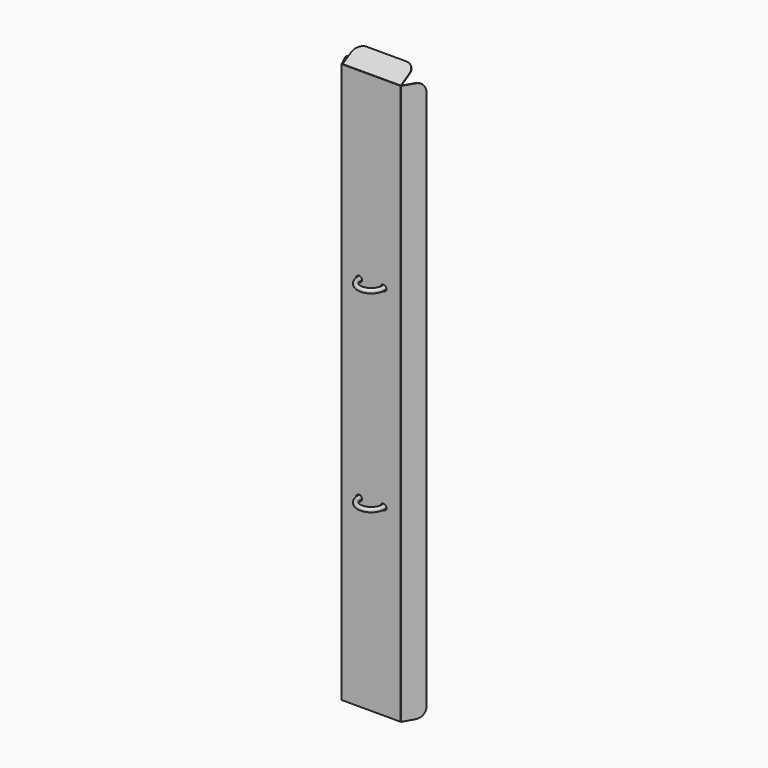
from build123d import *

# Parameters (mm, degrees)
F0_W          = 19
F0_H          = 183
F1_DEPTH      = 0.2
F3_DEPTH      = 0.2
F6_D          = 2
F7_R          = 0.6897302387
F8_ANGLE_BACK = 212.4467147355
F8_ANGLE      = 242.4467147355
F10_ANGLE     = 30
F12_DEPTH     = 0.2
F13_ANGLE     = 30
F14_ANGLE     = -25


with BuildPart() as f1:
    # F0 (on Front) → F1 (new body)
    with BuildSketch(Plane.XZ):
        Rectangle(F0_W, F0_H)
    extrude(amount=F1_DEPTH)

    # F6 (through all)
    with Locations(Plane.XZ.offset(0.2)):
        with Locations((-4, 31.5), (4, 31.5), (4, -31.5), (-4, -31.5)):
            Hole(F6_D / 2)


with BuildPart() as f3:
    # F2 (on face) → F3 (new body)
    with BuildSketch(Plane.YZ.offset(9.5)):
        with BuildLine():
            Line((3.8, 91.5), (-0.2, 91.5))
            Line((-0.2, 91.5), (-0.2, -91.5))
            Line((-0.2, -91.5), (3.8, -91.5))
            ThreePointArc((3.8, -91.5), (5.9213203436, -90.6213203436), (6.8, -88.5))
            Line((6.8, -88.5), (6.8, 88.5))
            ThreePointArc((6.8, 88.5), (5.9213203436, 90.6213203436), (3.8, 91.5))
        make_face()
    extrude(amount=F3_DEPTH)


with BuildPart() as f4_1:
    # F4: copy of F3
    add(f3.part.moved(Location((-19.2, 0, 0))))


with BuildPart() as f8:
    # F7 (on face) → F8 (revolve)
    with BuildSketch(Plane.XZ.offset(0.2), mode=Mode.PRIVATE) as f8_sk:
        with Locations((-4, 31.5)):
            Circle(F7_R)
    revolve(f8_sk.sketch.rotate(Axis((0, -0.2, 37.479095161), (0, 0, -1)), -F8_ANGLE_BACK), axis=Axis((0, -0.2, 37.479095161), (0, 0, -1)), revolution_arc=F8_ANGLE)


with BuildPart() as f9_1:
    # F9: instance of F8
    add(f8.part.mirror(Plane.XY))


with BuildPart() as f3_1:
    # F10: moved
    add(f3.part.rotate(Axis((9.7, -0.2, 0), (0, 0, -1)), F10_ANGLE))


with BuildPart() as f12:
    # F11 (on face) → F12 (new body)
    with BuildSketch(Plane.XY.offset(91.5)):
        with BuildLine():
            Line((-9.5, 0), (9.5, 0))
            Line((9.5, 0), (9.5, 4))
            ThreePointArc((9.5, 4), (8.6213203436, 6.1213203436), (6.5, 7))
            Line((6.5, 7), (-6.5, 7))
            ThreePointArc((-6.5, 7), (-8.6213203436, 6.1213203436), (-9.5, 4))
            Line((-9.5, 4), (-9.5, 0))
        make_face()
    extrude(amount=-F12_DEPTH)


with BuildPart() as f12_1:
    # F13: moved
    add(f12.part.rotate(Axis((0, 0, 91.5), (1, 0, 0)), F13_ANGLE))


with BuildPart() as f4_1_1:
    # F14: moved
    add(f4_1.part.rotate(Axis((-9.7, -0.2, 0), (0, 0, -1)), F14_ANGLE))


solid = Compound([f1.part, f8.part, f9_1.part, f3_1.part, f12_1.part, f4_1_1.part])
